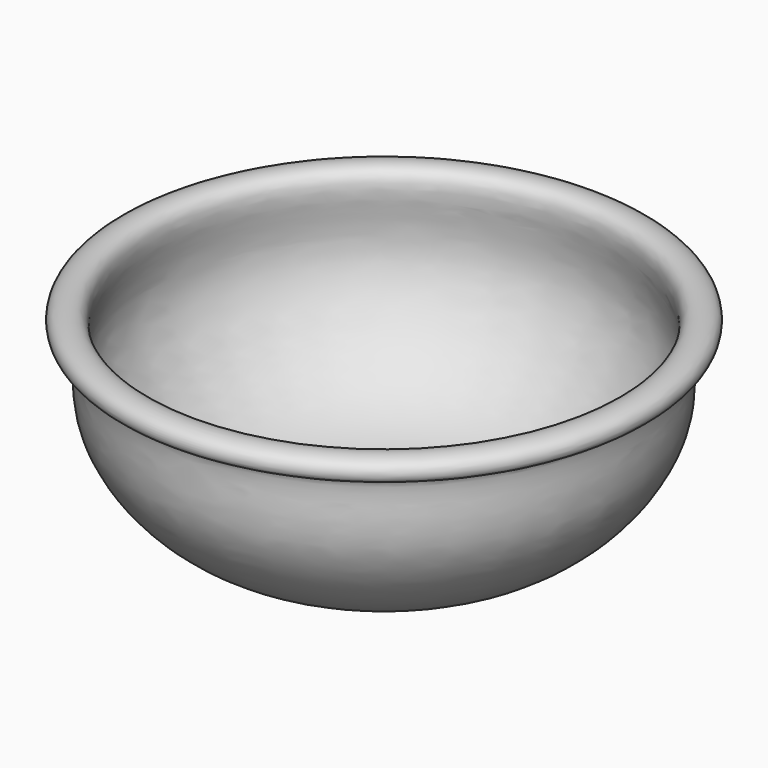
from build123d import *


with BuildPart() as f1:
    # F0 (on Right) → F1 (revolve)
    with BuildSketch(Plane.YZ):
        with BuildLine():
            add(Edge.make_bspline(
                [(0, 0), (-14.2443768141, -0.4295475198), (-41.4339073912, -1.2494637279), (-65.8837870847, 27.8460851339), (-60.3538507691, 47.6947619415), (-67.830830419, 47.1233836678), (-68.0906404486, 52.8314530146), (-59.9835923198, 53.5266188704), (-58.4186241363, 46.8001038954), (-63.7811322432, 30.7347337539), (-41.1852560527, 0.6944947222), (-14.2460404297, 2.2744480115), (0, 3.1099615153)],
                knots=[0, 0, 0, 0, 0.1566095532, 0.2989348212, 0.3960485792, 0.4470625465, 0.4931694976, 0.5532381882, 0.6090665948, 0.7054895933, 0.8442565211, 1, 1, 1, 1], degree=3))
            Line((0, 0), (0, 3.1099615153))
        make_face()
    revolve(axis=Axis((0, 0, 1.5549807576), (0, 0, -1)))


solid = f1.part
